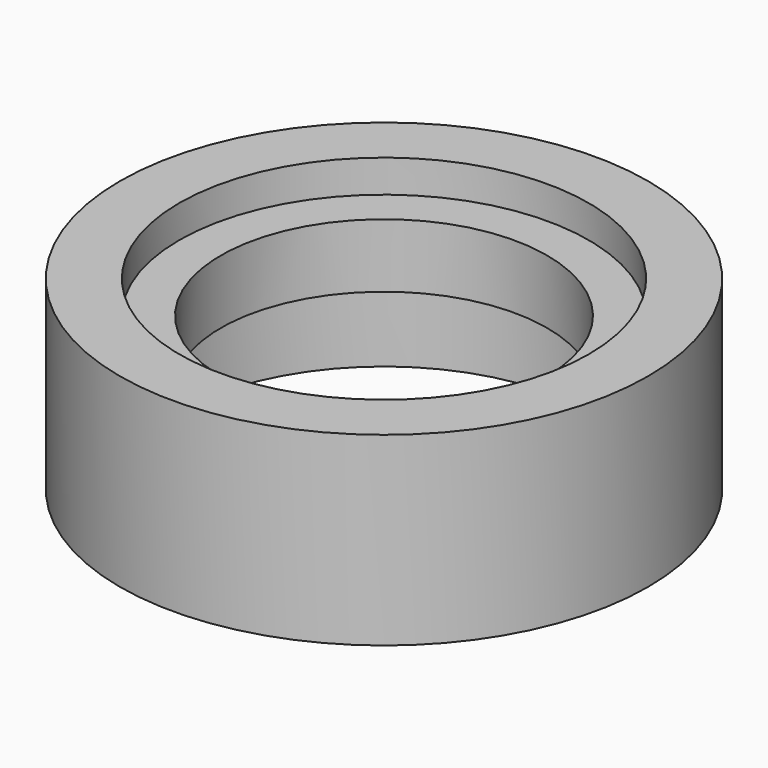
from build123d import *

# Parameters (mm, degrees)
F0_R     = 17.8
F1_DEPTH = 12.5
F2_R     = 11
F3_DEPTH = 25
F4_R     = 14
F5_DEPTH = 6
F6_R     = 13.8
F7_DEPTH = 2.2


with BuildPart() as f1:
    # F0 (on Top) → F1 (new body)
    with BuildSketch(Plane.XY):
        Circle(F0_R)
    extrude(amount=F1_DEPTH)

    # F2 (on face) → F3 (cut)
    with BuildSketch(Plane.XY.offset(12.5)):
        Circle(F2_R)
    extrude(amount=-F3_DEPTH, mode=Mode.SUBTRACT)

    # F4 (on face) → F5 (cut)
    with BuildSketch(Plane(origin=(0, 0, 0), x_dir=(1, 0, 0), z_dir=(0, 0, -1))):
        Circle(F4_R)
    extrude(amount=-F5_DEPTH, mode=Mode.SUBTRACT)

    # F6 (on face) → F7 (cut)
    with BuildSketch(Plane.XY.offset(12.5)):
        Circle(F6_R)
    extrude(amount=-F7_DEPTH, mode=Mode.SUBTRACT)


solid = f1.part
